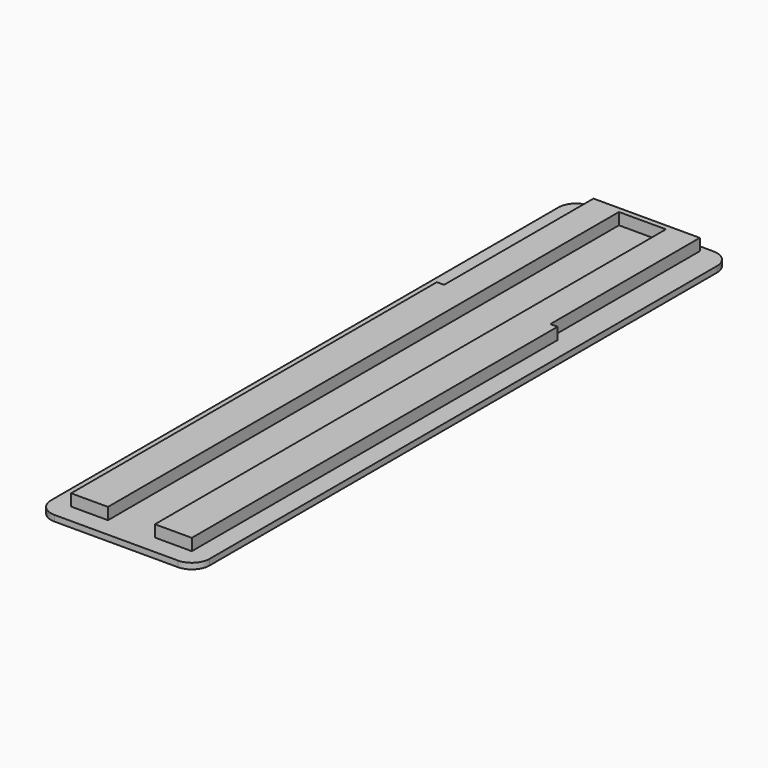
from build123d import *

# Parameters (mm, degrees)
F0_W     = 27
F0_H     = 114
F1_DEPTH = 1
F0_W_2   = 18.1
F0_H_2   = 31.8
F2_DEPTH = 3
F3_R     = 3
F4_W     = 8
F4_H     = 108.75
F5_DEPTH = 2


with BuildPart() as f1:
    # F0 (on Top) → F1 (new body)
    with BuildSketch(Plane.XY):
        Rectangle(F0_W, F0_H)
        Polygon((9.05, 24.1), (10.275, 24.1), (10.275, -53.75), (-10.275, -53.75), (-10.275, 24.1), (-9.05, 24.1), (-9.05, 55.9), (9.05, 55.9), align=None, mode=Mode.SUBTRACT)
    extrude(amount=F1_DEPTH)

    # F0 (on Top) → F2 (join)
    with BuildSketch(Plane.XY):
        Polygon((10.275, -53.75), (10.275, 24.1), (9.05, 24.1), (-9.05, 24.1), (-10.275, 24.1), (-10.275, -53.75), align=None)
        with Locations((0, 40)):
            Rectangle(F0_W_2, F0_H_2)
    extrude(amount=F2_DEPTH)

    # F3
    f3_edges = [f1.edges().sort_by_distance(p)[0] for p in [
        (13.5, -57, 0.5),
        (-13.5, -57, 0.5),
        (13.5, 57, 0.5),
        (-13.5, 57, 0.5),
    ]]
    fillet(f3_edges, radius=F3_R)

    # F4 (on face) → F5 (cut)
    with BuildSketch(Plane.XY.offset(3)):
        with Locations((0, 0.625)):
            Rectangle(F4_W, F4_H)
    extrude(amount=-F5_DEPTH, mode=Mode.SUBTRACT)


solid = f1.part
